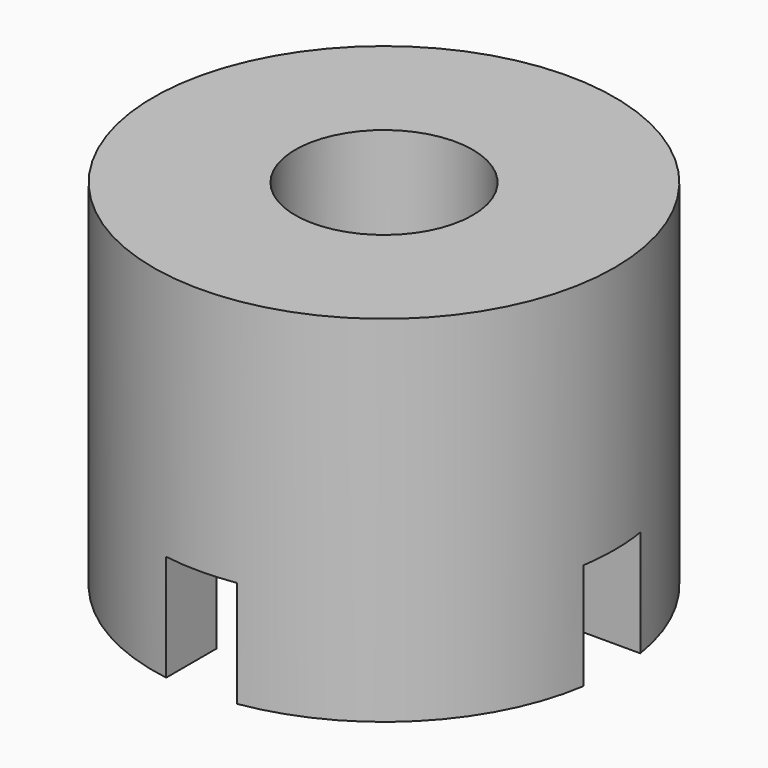
from build123d import *

# Parameters (mm, degrees)
F0_R     = 6.5
F0_R_2   = 4.75
F1_DEPTH = 5
F0_R_3   = 2.5
F2_DEPTH = 5
F3_W     = 1.8564560947
F3_H     = 2
F3_W_2   = 2
F3_H_2   = 1.8564560947
F4_DEPTH = 3
F6_DEPTH = 5


with BuildPart() as f1:
    # F0 (on Top) → F1 (new body)
    with BuildSketch(Plane.XY):
        Circle(F0_R)
        Circle(F0_R_2, mode=Mode.SUBTRACT)
    extrude(amount=-F1_DEPTH)

    # F0 (on Top) → F2 (join)
    with BuildSketch(Plane.XY):
        Circle(F0_R)
        Circle(F0_R_2, mode=Mode.SUBTRACT)
        Circle(F0_R_2)
        Circle(F0_R_3, mode=Mode.SUBTRACT)
    extrude(amount=F2_DEPTH)

    # F3 (on face) → F4 (cut)
    with BuildSketch(Plane(origin=(0, 0, -5), x_dir=(1, 0, 0), z_dir=(0, 0, -1))):
        with Locations((-5.5717719526, 0)):
            Rectangle(F3_W, F3_H)
        with Locations((0, -5.5717719526)):
            Rectangle(F3_W_2, F3_H_2)
        with Locations((5.5717719526, 0)):
            Rectangle(F3_W, F3_H)
        with Locations((0, 5.5717719526)):
            Rectangle(F3_W_2, F3_H_2)
    extrude(amount=-F4_DEPTH, mode=Mode.SUBTRACT)

    # F5 (on face) → F6 (cut, through all)
    with BuildSketch(Plane.XY):
        Polygon((0.0516711998, -5.1958955039), (4.5256131017, -2.5531991802), (4.4739419018, 2.6426963236), (-0.0516711998, 5.1958955039), (-4.5256131017, 2.5531991802), (-4.4739419018, -2.6426963236), align=None)
    extrude(amount=-F6_DEPTH, mode=Mode.SUBTRACT)


solid = f1.part
